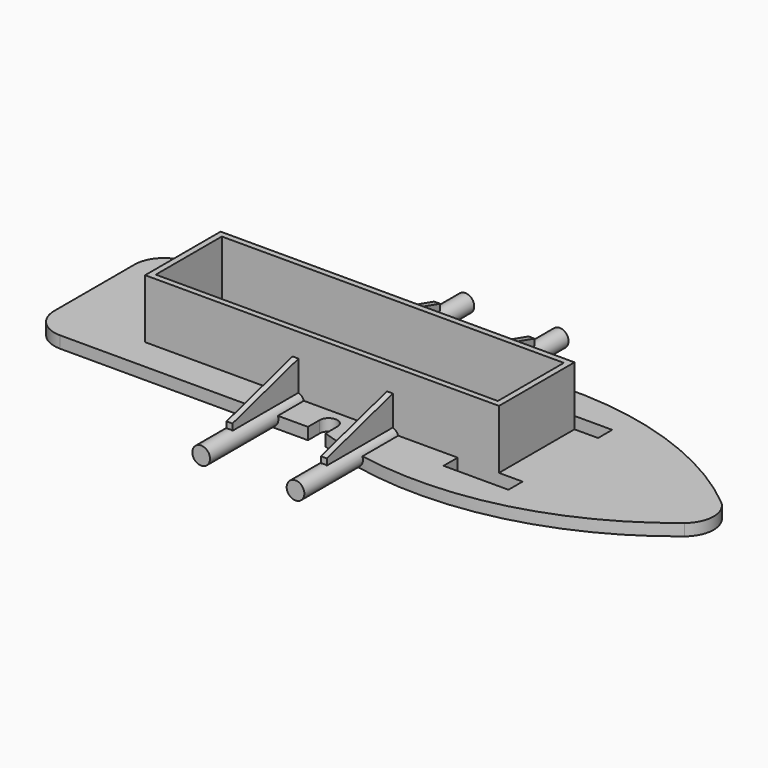
from build123d import *

# Parameters (mm, degrees)
F1_DEPTH  = 1
F2_W      = 60
F2_H      = 16
F2_W_2    = 58
F2_H_2    = 14
F3_DEPTH  = 10
F4_R      = 1.5
F5_DEPTH  = 20
F8_DEPTH  = 0.5
F11_W     = 11
F11_H     = 3
F12_DEPTH = 2.0010001


with BuildPart() as f1:
    # F0 (on Top) → F1 (new body, symmetric)
    with BuildSketch(Plane.XY):
        with BuildLine():
            Line((-48.5, 8.5), (-48.5, 0))
            Line((-48.5, 0), (-48.5, -8.5))
            ThreePointArc((-48.5, -8.5), (-47.0355339059, -12.0355339059), (-43.5, -13.5))
            Line((-43.5, -13.5), (-1.5, -13.5))
            Line((-1.5, -13.5), (-1.5, -11))
            ThreePointArc((-1.5, -11), (0, -9.5), (1.5, -11))
            Line((1.5, -11), (1.5, -13.5))
            ThreePointArc((1.5, -13.5), (29.3474128971, -15.612168306), (54.6807093507, -3.8578605504))
            ThreePointArc((54.6807093507, -3.8578605504), (56.5, 0), (54.6807093507, 3.8578605504))
            ThreePointArc((54.6807093507, 3.8578605504), (29.3474128971, 15.612168306), (1.5, 13.5))
            Line((1.5, 13.5), (1.5, 11))
            ThreePointArc((1.5, 11), (0, 9.5), (-1.5, 11))
            Line((-1.5, 11), (-1.5, 13.5))
            Line((-1.5, 13.5), (-43.5, 13.5))
            ThreePointArc((-43.5, 13.5), (-47.0355339059, 12.0355339059), (-48.5, 8.5))
        make_face()
    extrude(amount=F1_DEPTH, both=True)

    # F2 (on face) → F3 (join)
    with BuildSketch(Plane.XY.offset(1)):
        with Locations((-3.5, 0)):
            Rectangle(F2_W, F2_H)
        with Locations((-3.5, 0)):
            Rectangle(F2_W_2, F2_H_2, mode=Mode.SUBTRACT)
    extrude(amount=F3_DEPTH)

    # F4 (on face) → F5 (join)
    with BuildSketch(Plane.XZ.offset(8)):
        with Locations((-8, 0.5)):
            Circle(F4_R)
        with Locations((8, 0.5)):
            Circle(F4_R)
    extrude(amount=F5_DEPTH)



with BuildPart() as f8:
    # F7 (on offset) → F8 (new body, symmetric)
    with BuildSketch(Plane.YZ.offset(-8)):
        Polygon((-8, 7), (-22, 3), (-22, 0), (-8, 0), align=None)
    extrude(amount=F8_DEPTH, both=True)


with BuildPart() as f1_1:
    add(f1.part)

    add(f8.part)  # F9 merges F8
    # F9: F8 across plane
    add(f8.part.mirror(Plane.YZ))

    # F10: F1 across plane


with BuildPart() as f1_2:
    add(f1_1.part)
    add(f1_1.part.mirror(Plane.XZ))

    # F11 (on face) → F12 (cut, through all)
    with BuildSketch(Plane.XY.offset(1)):
        with Locations((25, 9.5)):
            Rectangle(F11_W, F11_H)
        with BuildLine():
            ThreePointArc((-11, 5), (-10.7071067812, 4.2928932188), (-10, 4))
            Line((-10, 4), (-2, 4))
            ThreePointArc((-2, 4), (-1.2928932188, 4.2928932188), (-1, 5))
            Line((-1, 5), (-1, 7))
            Line((-1, 7), (-11, 7))
            Line((-11, 7), (-11, 5))
        make_face()
        with BuildLine():
            ThreePointArc((-10, -4), (-10.7071067812, -4.2928932188), (-11, -5))
            Line((-11, -5), (-11, -7))
            Line((-11, -7), (-1, -7))
            Line((-1, -7), (-1, -5))
            ThreePointArc((-1, -5), (-1.2928932188, -4.2928932188), (-2, -4))
            Line((-2, -4), (-10, -4))
        make_face()
        with Locations((25, -9.5)):
            Rectangle(F11_W, F11_H)
    extrude(amount=-F12_DEPTH, mode=Mode.SUBTRACT)


solid = f1_2.part
